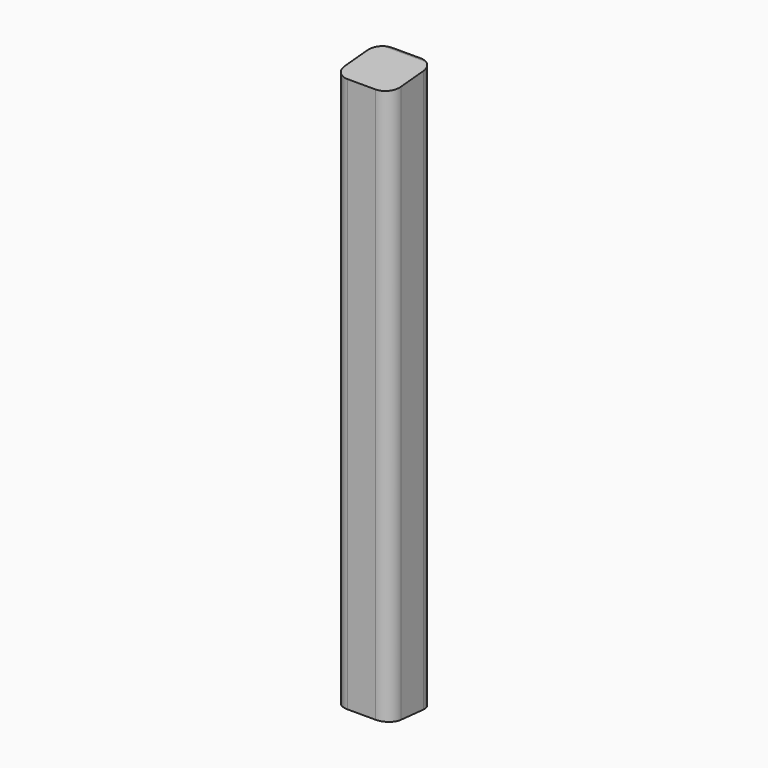
from build123d import *

# Parameters (mm, degrees)
F1_DEPTH = 255.5875
F3_DEPTH = 12.7
F5_DEPTH = 12.7


with BuildPart() as f1:
    # F0 (on Top) → F1 (new body)
    with BuildSketch(Plane.XY):
        with BuildLine():
            ThreePointArc((12.7, 6.35), (10.840128, 10.840128), (6.35, 12.7))
            Line((6.35, 12.7), (-6.35, 12.7))
            ThreePointArc((-6.35, 12.7), (-10.840128, 10.840128), (-12.7, 6.35))
            Line((-12.7, 6.35), (-12.7, -6.35))
            ThreePointArc((-12.7, -6.35), (-10.840128, -10.840128), (-6.35, -12.7))
            Line((-6.35, -12.7), (6.35, -12.7))
            ThreePointArc((6.35, -12.7), (10.840128, -10.840128), (12.7, -6.35))
            Line((12.7, -6.35), (12.7, 6.35))
        make_face()
    extrude(amount=F1_DEPTH)

    # F2 (on Right) → F3 (cut, symmetric)
    with BuildSketch(Plane.YZ):
        Polygon((-17.71266, 0), (12.69978, 0), (-17.71266, 2.660744), align=None)
    extrude(amount=F3_DEPTH, both=True, mode=Mode.SUBTRACT)

    # F4 (on Right) → F5 (cut, symmetric)
    with BuildSketch(Plane.YZ):
        Polygon((-13.445419, 253.380933), (13.181062, 255.710448), (-13.445419, 255.710448), align=None)
    extrude(amount=F5_DEPTH, both=True, mode=Mode.SUBTRACT)


solid = f1.part
